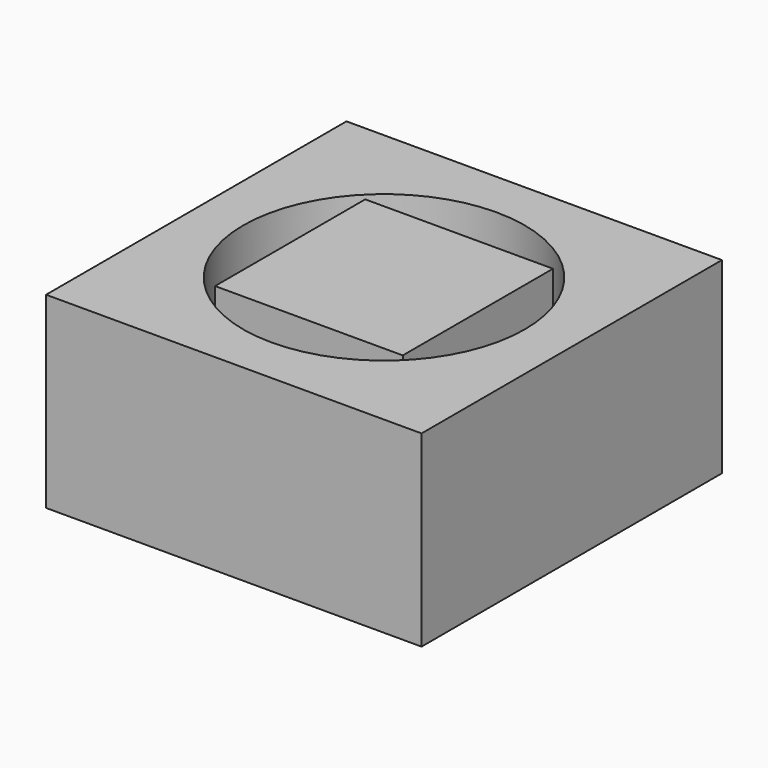
from build123d import *

# Parameters (mm, degrees)
F0_W     = 50.8
F0_H     = 50.8
F0_R     = 19.05
F0_W_2   = 25.4
F0_H_2   = 25.4
F1_DEPTH = 25.4


with BuildPart() as f1:
    # F0 (on Top) → F1 (new body)
    with BuildSketch(Plane.XY):
        with Locations((25.4, 25.4)):
            Rectangle(F0_W, F0_H)
        with Locations((25.4, 25.4)):
            Circle(F0_R, mode=Mode.SUBTRACT)
        with Locations((25.4, 25.4)):
            Rectangle(F0_W_2, F0_H_2)
    extrude(amount=F1_DEPTH)


solid = f1.part
